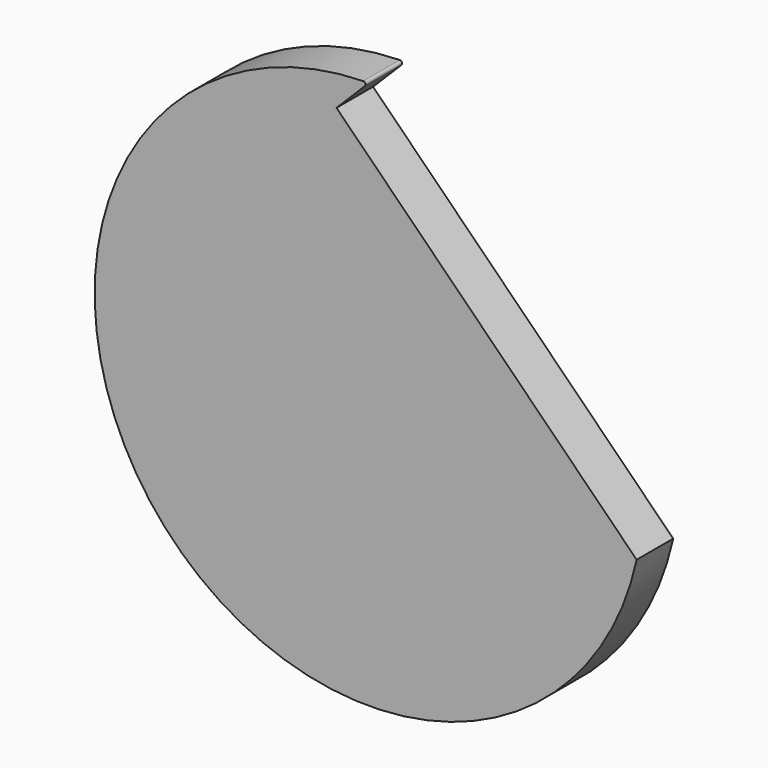
from build123d import *

# Parameters (mm, degrees)
F1_DEPTH = 25.4
F2_R     = 1.27


with BuildPart() as f1:
    # F0 (on Front) → F1 (new body)
    with BuildSketch(Plane.XZ):
        with BuildLine():
            Line((-17.960512, 134.439488), (0, 152.4))
            ThreePointArc((0, 152.4), (-118.676376, -95.612122), (148.90945, -32.430475))
            Line((148.90945, -32.430475), (-17.960512, 134.439488))
        make_face()
    extrude(amount=F1_DEPTH)

    # F2
    f2_edges = [f1.edges().sort_by_distance(p)[0] for p in [
        (0, -12.7, 152.4),
    ]]
    fillet(f2_edges, radius=F2_R)


solid = f1.part
